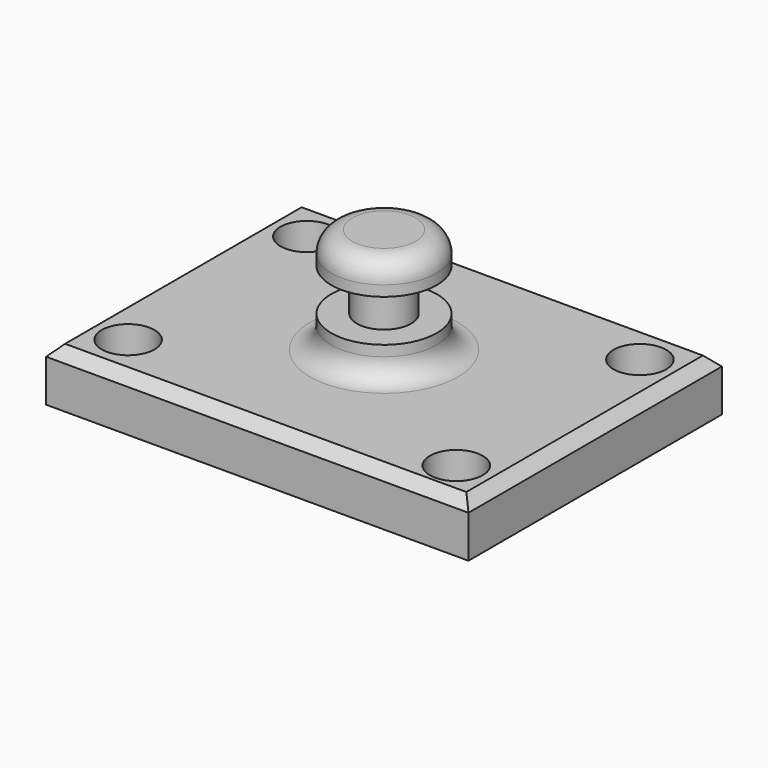
from build123d import *

# Parameters (mm, degrees)
F0_W     = 101.6
F0_H     = 76.2
F1_DEPTH = 12.7
F2_R     = 6.35
F3_DEPTH = 12.701
F4_W     = 12.7
F4_H     = 25.4
F6_W     = 7.62
F6_H     = 10.159998
F8_R     = 5.08
F9_SIZE  = 2.54


with BuildPart() as f1:
    # F0 (on Top) → F1 (new body)
    with BuildSketch(Plane.XY):
        Rectangle(F0_W, F0_H)
    extrude(amount=F1_DEPTH)

    # F2 (on Top) → F3 (cut, through all)
    with BuildSketch(Plane.XY):
        with Locations((40.051175, -28.32065)):
            Circle(F2_R)
        with Locations((-40.051175, -26.874617)):
            Circle(F2_R)
        with Locations((-40.051175, 26.874617)):
            Circle(F2_R)
        with Locations((40.051175, 26.874617)):
            Circle(F2_R)
    extrude(amount=F3_DEPTH, mode=Mode.SUBTRACT)

    # F4 (on Front) → F5 (revolve)
    with BuildSketch(Plane.XZ):
        with Locations((6.35, 25.4)):
            Rectangle(F4_W, F4_H)
    revolve(axis=Axis((0, 0, 25.4), (0, 0, -1)))

    # F6 (on Front) → F7 (revolve, cut)
    with BuildSketch(Plane.XZ):
        with Locations((10.340814, 25.406481)):
            Rectangle(F6_W, F6_H)
    revolve(axis=Axis((0, 0, 32.947668), (0, 0, 1)), mode=Mode.SUBTRACT)

    # F8
    f8_edges = [f1.edges().sort_by_distance(p)[0] for p in [
        (-12.7, 0, 38.1),
        (-12.7, 0, 12.7),
    ]]
    fillet(f8_edges, radius=F8_R)

    # F9
    f9_edges = [f1.edges().sort_by_distance(p)[0] for p in [
        (0, -38.1, 12.7),
        (50.8, 0, 12.7),
        (0, 38.1, 12.7),
        (-50.8, 0, 12.7),
    ]]
    chamfer(f9_edges, length=F9_SIZE)


solid = f1.part
